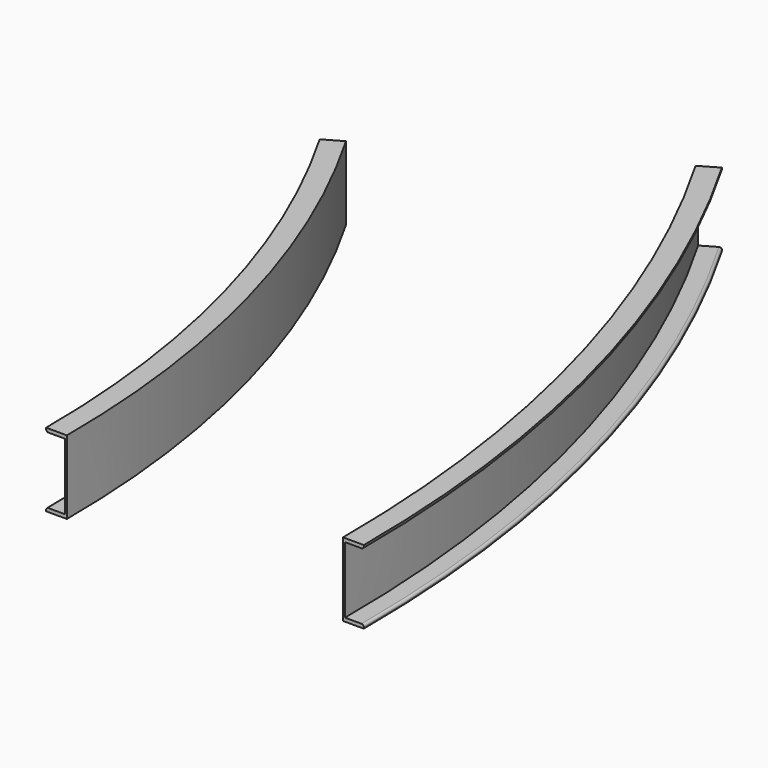
from build123d import *


with BuildPart() as f2:
    # F2: sweep along a path in F1
    with BuildLine(Plane.XY) as f2_path:
        ThreePointArc((0, 0), (-124.629698, 946.656539), (-490.025483, 1828.8))
    # F0 (on Front) → F2 (sweep)
    with BuildSketch(Plane.XZ):
        with BuildLine():
            Line((0, 101.6), (0, 0))
            Line((0, 0), (0, -101.6))
            Line((0, -101.6), (57.404, -101.6))
            Line((57.404, -101.6), (57.404, -98.044))
            ThreePointArc((57.404, -98.044), (55.544128, -93.553872), (51.054, -91.694))
            Line((51.054, -91.694), (5.588, -91.694))
            Line((5.588, -91.694), (5.588, 0))
            Line((5.588, 0), (5.588, 91.694))
            Line((5.588, 91.694), (51.054, 91.694))
            ThreePointArc((51.054, 91.694), (55.544128, 93.553872), (57.404, 98.044))
            Line((57.404, 98.044), (57.404, 101.6))
            Line((57.404, 101.6), (0, 101.6))
        make_face()
    sweep(path=f2_path.line)


with BuildPart() as f3:
    # F3: sweep along a path in F1
    with BuildLine(Plane.XY) as f3_path:
        ThreePointArc((-762, 0), (-860.665177, 749.436427), (-1149.936841, 1447.8))
    # F0 (on Front) → F3 (sweep)
    with BuildSketch(Plane.XZ):
        with BuildLine():
            Line((-762, 0), (-762, 101.6))
            Line((-762, 101.6), (-819.404, 101.6))
            Line((-819.404, 101.6), (-819.404, 98.044))
            ThreePointArc((-819.404, 98.044), (-817.544128, 93.553872), (-813.054, 91.694))
            Line((-813.054, 91.694), (-767.588, 91.694))
            Line((-767.588, 91.694), (-767.588, 0))
            Line((-767.588, 0), (-767.588, -91.694))
            Line((-767.588, -91.694), (-813.054, -91.694))
            ThreePointArc((-813.054, -91.694), (-817.544128, -93.553872), (-819.404, -98.044))
            Line((-819.404, -98.044), (-819.404, -101.6))
            Line((-819.404, -101.6), (-762, -101.6))
            Line((-762, -101.6), (-762, 0))
        make_face()
    sweep(path=f3_path.line)


solid = Compound([f2.part, f3.part])
